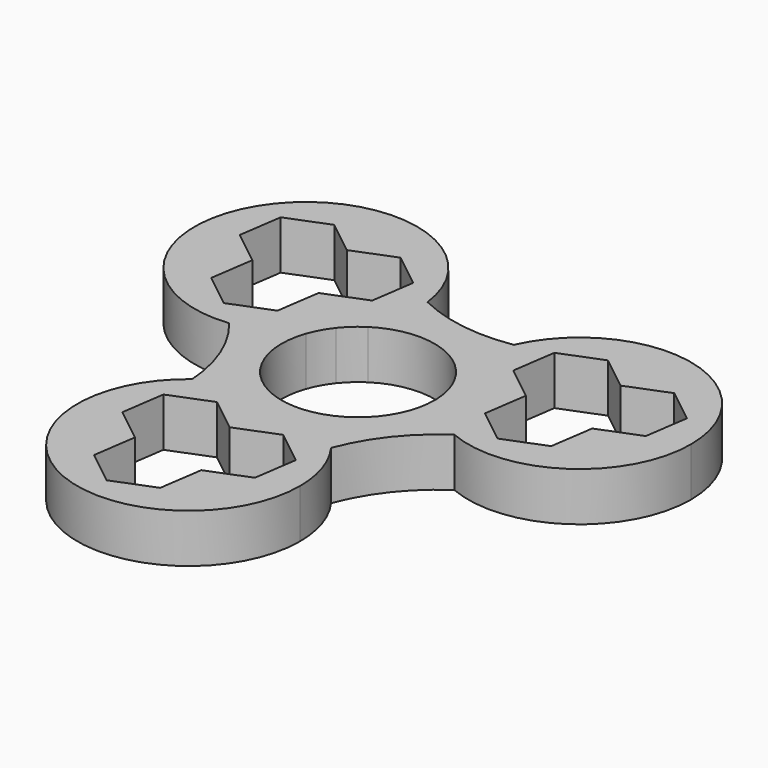
from build123d import *

# Parameters (mm, degrees)
F1_DEPTH = 7


with BuildPart() as f1:
    # F0 (on Top) → F1 (new body)
    with BuildSketch(Plane.XY):
        with BuildLine():
            ThreePointArc((13.9404458706, 5.5375056594), (14.7327303657, 2.818981371), (15, 0))
            ThreePointArc((15, 0), (14.910105435, -1.6397426375), (14.641499211, -3.2598314149))
            ThreePointArc((14.641499211, -3.2598314149), (16.2490479671, -4.3071380253), (17.9703990001, -5.1544955417))
            ThreePointArc((17.9703990001, -5.1544955417), (20.0933334601, -3.8883563859), (22.3387689603, -2.8549259348))
            Line((22.3387689603, -2.8549259348), (17.4025129068, 1.0484968591))
            Line((17.4025129068, 1.0484968591), (18.3148481812, 7.2751313979))
            Line((18.3148481812, 7.2751313979), (13.9404458706, 5.5375056594))
        make_face()
        with BuildLine():
            ThreePointArc((8.413853575, 12.4180138516), (11.6946151785, 9.393400653), (13.9404458706, 5.5375056594))
            Line((13.9404458706, 5.5375056594), (18.3148481812, 7.2751313979))
            Line((18.3148481812, 7.2751313979), (13.3785921276, 11.1785541917))
            Line((13.3785921276, 11.1785541917), (14.290927402, 17.4051887306))
            ThreePointArc((14.290927402, 17.4051887306), (11.948407394, 16.6161645896), (9.5353183296, 16.0804778806))
            ThreePointArc((9.5353183296, 16.0804778806), (8.864593701, 14.2829260421), (8.413853575, 12.4180138516))
        make_face()
        with BuildLine():
            ThreePointArc((17.9703990001, -5.1544955417), (16.2490479671, -4.3071380253), (14.641499211, -3.2598314149))
            ThreePointArc((14.641499211, -3.2598314149), (11.76584351, -9.3040274344), (6.5473886725, -13.4956178655))
            ThreePointArc((6.5473886725, -13.4956178655), (7.9370799423, -14.8184263603), (9.1584431848, -16.2980668469))
            ThreePointArc((9.1584431848, -16.2980668469), (12.6917707898, -10.0362191218), (17.9703990001, -5.1544955417))
        make_face()
        with BuildLine():
            ThreePointArc((-4.4976527882, 14.3098259737), (2.1746023607, 14.8415330938), (8.413853575, 12.4180138516))
            ThreePointArc((8.413853575, 12.4180138516), (8.864593701, 14.2829260421), (9.5353183296, 16.0804778806))
            ThreePointArc((9.5353183296, 16.0804778806), (2.3457353225, 16.0095054839), (-4.5212754173, 18.1400698211))
            ThreePointArc((-4.5212754173, 18.1400698211), (-4.4259470549, 17.1355310008), (-4.3941287506, 16.1269808862))
            ThreePointArc((-4.3941287506, 16.1269808862), (-4.420030726, 15.216930173), (-4.4976527882, 14.3098259737))
        make_face()
        with BuildLine():
            ThreePointArc((9.1584431848, -16.2980668469), (7.9370799423, -14.8184263603), (6.5473886725, -13.4956178655))
            ThreePointArc((6.5473886725, -13.4956178655), (2.2876160042, -14.8245341585), (-2.1746023607, -14.8415330938))
            Line((-2.1746023607, -14.8415330938), (-2.8569754841, -19.4986894903))
            Line((-2.8569754841, -19.4986894903), (2.9916158438, -17.1754777453))
            Line((2.9916158438, -17.1754777453), (7.9278718973, -21.0789005391))
            ThreePointArc((7.9278718973, -21.0789005391), (8.4158169511, -18.6557066328), (9.1584431848, -16.2980668469))
        make_face()
        with BuildLine():
            ThreePointArc((22.3387689603, -2.8549259348), (20.0933334601, -3.8883563859), (17.9703990001, -5.1544955417))
            ThreePointArc((17.9703990001, -5.1544955417), (33.0209603772, -3.7262328005), (40.1634395091, 9.598343143))
            ThreePointArc((40.1634395091, 9.598343143), (27.4762978767, 25.2516165845), (9.5353183296, 16.0804778806))
            ThreePointArc((9.5353183296, 16.0804778806), (11.948407394, 16.6161645896), (14.290927402, 17.4051887306))
            Line((14.290927402, 17.4051887306), (20.1395187299, 19.7284004756))
            Line((20.1395187299, 19.7284004756), (25.0757747835, 15.8249776818))
            Line((25.0757747835, 15.8249776818), (30.9243661114, 18.1481894269))
            Line((30.9243661114, 18.1481894269), (35.8606221649, 14.244766633))
            Line((35.8606221649, 14.244766633), (34.9482868906, 8.0181320942))
            Line((34.9482868906, 8.0181320942), (29.0996955626, 5.6949203491))
            Line((29.0996955626, 5.6949203491), (28.1873602883, -0.5317141897))
            Line((28.1873602883, -0.5317141897), (22.3387689603, -2.8549259348))
        make_face()
        with BuildLine():
            ThreePointArc((-11.76584351, 9.3040274344), (-8.5082214777, 12.353548773), (-4.4976527882, 14.3098259737))
            ThreePointArc((-4.4976527882, 14.3098259737), (-4.420030726, 15.216930173), (-4.3941287506, 16.1269808862))
            ThreePointArc((-4.3941287506, 16.1269808862), (-4.4259470549, 17.1355310008), (-4.5212754173, 18.1400698211))
            ThreePointArc((-4.5212754173, 18.1400698211), (-6.6792513209, 19.3455154161), (-8.6969460947, 20.7734043763))
            Line((-8.6969460947, 20.7734043763), (-9.6092813691, 14.5467698375))
            Line((-9.6092813691, 14.5467698375), (-15.457872697, 12.2235580924))
            Line((-15.457872697, 12.2235580924), (-11.76584351, 9.3040274344))
        make_face()
        with BuildLine():
            Line((-2.8569754841, -19.4986894903), (-2.1746023607, -14.8415330938))
            ThreePointArc((-2.1746023607, -14.8415330938), (-6.4443763254, -13.5451103272), (-10.1438464229, -11.0499945588))
            ThreePointArc((-10.1438464229, -11.0499945588), (-11.8546149311, -11.9185193142), (-13.4491235829, -12.9855742794))
            ThreePointArc((-13.4491235829, -12.9855742794), (-13.4140821392, -15.4571590302), (-13.6418228656, -17.9184784416))
            Line((-13.6418228656, -17.9184784416), (-7.7932315377, -15.5952666965))
            Line((-7.7932315377, -15.5952666965), (-2.8569754841, -19.4986894903))
        make_face()
        with BuildLine():
            ThreePointArc((12.2306892415, -25.7253240292), (11.4432508781, -20.7677068139), (9.1584431848, -16.2980668469))
            ThreePointArc((9.1584431848, -16.2980668469), (8.4158169511, -18.6557066328), (7.9278718973, -21.0789005391))
            Line((7.9278718973, -21.0789005391), (7.0155366229, -27.3055350779))
            Line((7.0155366229, -27.3055350779), (1.166945295, -29.628746823))
            Line((1.166945295, -29.628746823), (0.2546100206, -35.8553813618))
            Line((0.2546100206, -35.8553813618), (-5.5939813073, -38.1785931069))
            Line((-5.5939813073, -38.1785931069), (-10.5302373608, -34.2751703131))
            Line((-10.5302373608, -34.2751703131), (-9.6179020864, -28.0485357742))
            Line((-9.6179020864, -28.0485357742), (-14.55415814, -24.1451129804))
            Line((-14.55415814, -24.1451129804), (-13.6418228656, -17.9184784416))
            ThreePointArc((-13.6418228656, -17.9184784416), (-13.4140821392, -15.4571590302), (-13.4491235829, -12.9855742794))
            ThreePointArc((-13.4491235829, -12.9855742794), (-10.8799715861, -40.0584500872), (12.2306892415, -25.7253240292))
        make_face()
        with BuildLine():
            ThreePointArc((-14.9612422475, 1.0776040139), (-13.9822311827, 5.4311335055), (-11.76584351, 9.3040274344))
            Line((-11.76584351, 9.3040274344), (-15.457872697, 12.2235580924))
            Line((-15.457872697, 12.2235580924), (-16.3702079714, 5.9969235536))
            Line((-16.3702079714, 5.9969235536), (-22.2187992993, 3.6737118085))
            ThreePointArc((-22.2187992993, 3.6737118085), (-20.3642243451, 2.0395420431), (-18.6937615143, 0.2175889663))
            ThreePointArc((-18.6937615143, 0.2175889663), (-16.8016736433, 0.5355003182), (-14.9612422475, 1.0776040139))
        make_face()
        with BuildLine():
            ThreePointArc((-8.6969460947, 20.7734043763), (-6.6792513209, 19.3455154161), (-4.5212754173, 18.1400698211))
            ThreePointArc((-4.5212754173, 18.1400698211), (-32.9443618279, 26.0512768162), (-18.6937615143, 0.2175889663))
            ThreePointArc((-18.6937615143, 0.2175889663), (-20.3642243451, 2.0395420431), (-22.2187992993, 3.6737118085))
            Line((-22.2187992993, 3.6737118085), (-27.1550553529, 7.5771346023))
            Line((-27.1550553529, 7.5771346023), (-26.2427200785, 13.8037691412))
            Line((-26.2427200785, 13.8037691412), (-31.178976132, 17.707191935))
            Line((-31.178976132, 17.707191935), (-30.2666408577, 23.9338264738))
            Line((-30.2666408577, 23.9338264738), (-24.4180495297, 26.2570382189))
            Line((-24.4180495297, 26.2570382189), (-19.4817934762, 22.3536154251))
            Line((-19.4817934762, 22.3536154251), (-13.6332021483, 24.6768271701))
            Line((-13.6332021483, 24.6768271701), (-8.6969460947, 20.7734043763))
        make_face()
        with BuildLine():
            ThreePointArc((-13.4491235829, -12.9855742794), (-11.8546149311, -11.9185193142), (-10.1438464229, -11.0499945588))
            ThreePointArc((-10.1438464229, -11.0499945588), (-13.9404458706, -5.5375056594), (-14.9612422475, 1.0776040139))
            ThreePointArc((-14.9612422475, 1.0776040139), (-16.8016736433, 0.5355003182), (-18.6937615143, 0.2175889663))
            ThreePointArc((-18.6937615143, 0.2175889663), (-15.0375061123, -5.9732863621), (-13.4491235829, -12.9855742794))
        make_face()
        with BuildLine():
            ThreePointArc((14.641499211, -3.2598314149), (14.910105435, -1.6397426375), (15, 0))
            ThreePointArc((15, 0), (14.7327303657, 2.818981371), (13.9404458706, 5.5375056594))
            Line((13.9404458706, 5.5375056594), (10.2229936385, 4.0608374836))
            ThreePointArc((10.2229936385, 4.0608374836), (10.7520038701, 2.3225875179), (10.9876563598, 0.5209680597))
            ThreePointArc((10.9876563598, 0.5209680597), (12.658211411, -1.5205473777), (14.641499211, -3.2598314149))
        make_face()
        with BuildLine():
            Line((10.2229936385, 4.0608374836), (13.9404458706, 5.5375056594))
            ThreePointArc((13.9404458706, 5.5375056594), (11.6946151785, 9.393400653), (8.413853575, 12.4180138516))
            ThreePointArc((8.413853575, 12.4180138516), (8.1646104404, 9.7919107843), (8.3502441941, 7.1605462012))
            ThreePointArc((8.3502441941, 7.1605462012), (9.4150591835, 5.6882915335), (10.2229936385, 4.0608374836))
        make_face()
        with BuildLine():
            ThreePointArc((-14.9612422475, 1.0776040139), (-13.9404458706, -5.5375056594), (-10.1438464229, -11.0499945588))
            ThreePointArc((-10.1438464229, -11.0499945588), (-7.6459383622, -10.2020589595), (-5.0426566056, -9.7760735655))
            ThreePointArc((-5.0426566056, -9.7760735655), (-10.2229936385, -4.0608374836), (-10.3763370122, 3.6512504993))
            ThreePointArc((-10.3763370122, 3.6512504993), (-12.562348711, 2.1748046613), (-14.9612422475, 1.0776040139))
        make_face()
        with BuildLine():
            Line((-8.6282852406, 6.8229534519), (-11.76584351, 9.3040274344))
            ThreePointArc((-11.76584351, 9.3040274344), (-13.9822311827, 5.4311335055), (-14.9612422475, 1.0776040139))
            ThreePointArc((-14.9612422475, 1.0776040139), (-12.562348711, 2.1748046613), (-10.3763370122, 3.6512504993))
            ThreePointArc((-10.3763370122, 3.6512504993), (-9.6337345639, 5.3095346643), (-8.6282852406, 6.8229534519))
        make_face()
        with BuildLine():
            ThreePointArc((-5.9449997541, 9.2551055058), (-5.0122730488, 11.7226063372), (-4.4976527882, 14.3098259737))
            ThreePointArc((-4.4976527882, 14.3098259737), (-8.5082214777, 12.353548773), (-11.76584351, 9.3040274344))
            Line((-11.76584351, 9.3040274344), (-8.6282852406, 6.8229534519))
            ThreePointArc((-8.6282852406, 6.8229534519), (-7.3874217281, 8.1502147341), (-5.9449997541, 9.2551055058))
        make_face()
        with BuildLine():
            Line((10.2229936385, 4.0608374836), (13.9404458706, 5.5375056594))
            ThreePointArc((13.9404458706, 5.5375056594), (11.6946151785, 9.393400653), (8.413853575, 12.4180138516))
            ThreePointArc((8.413853575, 12.4180138516), (8.1646104404, 9.7919107843), (8.3502441941, 7.1605462012))
            ThreePointArc((8.3502441941, 7.1605462012), (9.4150591835, 5.6882915335), (10.2229936385, 4.0608374836))
        make_face()
        with BuildLine():
            ThreePointArc((14.641499211, -3.2598314149), (14.910105435, -1.6397426375), (15, 0))
            ThreePointArc((15, 0), (14.7327303657, 2.818981371), (13.9404458706, 5.5375056594))
            Line((13.9404458706, 5.5375056594), (10.2229936385, 4.0608374836))
            ThreePointArc((10.2229936385, 4.0608374836), (10.7520038701, 2.3225875179), (10.9876563598, 0.5209680597))
            ThreePointArc((10.9876563598, 0.5209680597), (12.658211411, -1.5205473777), (14.641499211, -3.2598314149))
        make_face()
        with BuildLine():
            ThreePointArc((-10.1438464229, -11.0499945588), (-6.4443763254, -13.5451103272), (-2.1746023607, -14.8415330938))
            Line((-2.1746023607, -14.8415330938), (-1.5947083978, -10.8837909354))
            ThreePointArc((-1.5947083978, -10.8837909354), (-3.364582142, -10.472802252), (-5.0426566056, -9.7760735655))
            ThreePointArc((-5.0426566056, -9.7760735655), (-7.6459383622, -10.2020589595), (-10.1438464229, -11.0499945588))
        make_face()
        with BuildLine():
            ThreePointArc((-2.1746023607, -14.8415330938), (2.2876160042, -14.8245341585), (6.5473886725, -13.4956178655))
            ThreePointArc((6.5473886725, -13.4956178655), (4.3977382706, -11.9667154456), (2.0260928181, -10.8117967005))
            ThreePointArc((2.0260928181, -10.8117967005), (0.2186753804, -10.9978261978), (-1.5947083978, -10.8837909354))
            Line((-1.5947083978, -10.8837909354), (-2.1746023607, -14.8415330938))
        make_face()
        with BuildLine():
            ThreePointArc((8.3502441941, 7.1605462012), (8.1646104404, 9.7919107843), (8.413853575, 12.4180138516))
            ThreePointArc((8.413853575, 12.4180138516), (2.1746023607, 14.8415330938), (-4.4976527882, 14.3098259737))
            ThreePointArc((-4.4976527882, 14.3098259737), (-5.0122730488, 11.7226063372), (-5.9449997541, 9.2551055058))
            ThreePointArc((-5.9449997541, 9.2551055058), (1.5947083978, 10.8837909354), (8.3502441941, 7.1605462012))
        make_face()
        with BuildLine():
            ThreePointArc((6.5473886725, -13.4956178655), (11.76584351, -9.3040274344), (14.641499211, -3.2598314149))
            ThreePointArc((14.641499211, -3.2598314149), (12.658211411, -1.5205473777), (10.9876563598, 0.5209680597))
            ThreePointArc((10.9876563598, 0.5209680597), (10.996913657, 0.2605571361), (11, 0))
            ThreePointArc((11, 0), (8.4642489625, -7.0254173898), (2.0260928181, -10.8117967005))
            ThreePointArc((2.0260928181, -10.8117967005), (4.3977382706, -11.9667154456), (6.5473886725, -13.4956178655))
        make_face()
    extrude(amount=F1_DEPTH)


solid = f1.part
